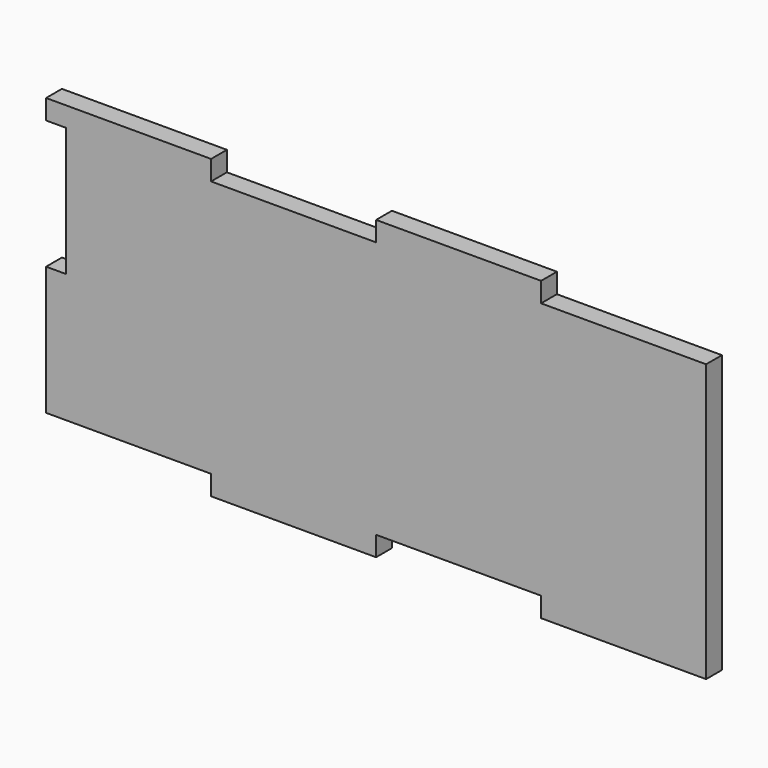
from build123d import *

# Parameters (mm, degrees)
RECTANGLE127_AS_DRAWN_W                      = 25
RECTANGLE127_AS_DRAWN_H                      = 3
EXTRUDE155_DEPTH                             = 3
EXTRUDE155_ONTO_RECTANGLE127_ROLL_ANGLE      = -90
EXTRUDE155_ONTO_RECTANGLE127_PLACEMENT_ANGLE = 180
RECTANGLE128_AS_DRAWN_W                      = 25
RECTANGLE128_AS_DRAWN_H                      = 3
EXTRUDE157_DEPTH                             = 3
EXTRUDE157_ONTO_RECTANGLE128_ROLL_ANGLE      = -90
EXTRUDE157_ONTO_RECTANGLE128_PLACEMENT_ANGLE = 180
RECTANGLE130_AS_DRAWN_W                      = 25
RECTANGLE130_AS_DRAWN_H                      = 3
EXTRUDE162_DEPTH                             = 3
EXTRUDE162_ONTO_RECTANGLE130_ROLL_ANGLE      = -90
EXTRUDE162_ONTO_RECTANGLE130_PLACEMENT_ANGLE = 180
EXTRUDE160_DEPTH                             = 3
EXTRUDE160_ONTO_RECTANGLE127_ROLL_ANGLE      = -90
EXTRUDE160_ONTO_RECTANGLE127_PLACEMENT_ANGLE = 180
RECTANGLE132_AS_DRAWN_W                      = 3
RECTANGLE132_AS_DRAWN_H                      = 19.5
EXTRUDE168_DEPTH                             = 3
EXTRUDE168_ONTO_RECTANGLE132_ROLL_ANGLE      = -90
EXTRUDE168_ONTO_RECTANGLE132_PLACEMENT_ANGLE = 180
BOX044_W                                     = 100
BOX044_H                                     = 3
BOX044_DEPTH                                 = 45


with BuildPart() as extrude155:
    # Rectangle127 as drawn → Extrude155 (new)
    with BuildSketch(Plane.XY):
        with Locations((12.5, 1.5)):
            Rectangle(RECTANGLE127_AS_DRAWN_W, RECTANGLE127_AS_DRAWN_H)
    extrude(amount=-EXTRUDE155_DEPTH)


with BuildPart() as extrude155_1:
    # Extrude155 onto Rectangle127 roll: moved
    add(extrude155.part.rotate(Axis((0, 0, 0), (1, 0, 0)), EXTRUDE155_ONTO_RECTANGLE127_ROLL_ANGLE))


with BuildPart() as extrude155_2:
    # Extrude155 onto Rectangle127 placement: moved
    add(extrude155_1.part.moved(Location((114, -77, -70))).rotate(Axis((114, -77, -70), (0, 0, 1)), EXTRUDE155_ONTO_RECTANGLE127_PLACEMENT_ANGLE))


with BuildPart() as extrude155_3:
    # Extrude155 placement: moved
    add(extrude155_2.part.moved(Location((-183, 0, 0))))


with BuildPart() as extrude157:
    # Rectangle128 as drawn → Extrude157 (new)
    with BuildSketch(Plane.XY):
        with Locations((12.5, 1.5)):
            Rectangle(RECTANGLE128_AS_DRAWN_W, RECTANGLE128_AS_DRAWN_H)
    extrude(amount=-EXTRUDE157_DEPTH)


with BuildPart() as extrude157_1:
    # Extrude157 onto Rectangle128 roll: moved
    add(extrude157.part.rotate(Axis((0, 0, 0), (1, 0, 0)), EXTRUDE157_ONTO_RECTANGLE128_ROLL_ANGLE))


with BuildPart() as extrude157_2:
    # Extrude157 onto Rectangle128 placement: moved
    add(extrude157_1.part.moved(Location((89, -77, -70))).rotate(Axis((89, -77, -70), (0, 0, 1)), EXTRUDE157_ONTO_RECTANGLE128_PLACEMENT_ANGLE))


with BuildPart() as extrude157_3:
    # Extrude157 placement: moved
    add(extrude157_2.part.moved(Location((-208, 0, 0))))


with BuildPart() as extrude162:
    # Rectangle130 as drawn → Extrude162 (new)
    with BuildSketch(Plane.XY):
        with Locations((12.5, 1.5)):
            Rectangle(RECTANGLE130_AS_DRAWN_W, RECTANGLE130_AS_DRAWN_H)
    extrude(amount=-EXTRUDE162_DEPTH)


with BuildPart() as extrude162_1:
    # Extrude162 onto Rectangle130 roll: moved
    add(extrude162.part.rotate(Axis((0, 0, 0), (1, 0, 0)), EXTRUDE162_ONTO_RECTANGLE130_ROLL_ANGLE))


with BuildPart() as extrude162_2:
    # Extrude162 onto Rectangle130 placement: moved
    add(extrude162_1.part.moved(Location((39, -77, -70))).rotate(Axis((39, -77, -70), (0, 0, 1)), EXTRUDE162_ONTO_RECTANGLE130_PLACEMENT_ANGLE))


with BuildPart() as extrude162_3:
    # Extrude162 placement: moved
    add(extrude162_2.part.moved(Location((-183, 0, -42))))


with BuildPart() as extrude160:
    # Rectangle127 as drawn → Extrude160 (new)
    with BuildSketch(Plane.XY):
        with Locations((12.5, 1.5)):
            Rectangle(RECTANGLE127_AS_DRAWN_W, RECTANGLE127_AS_DRAWN_H)
    extrude(amount=-EXTRUDE160_DEPTH)


with BuildPart() as extrude160_1:
    # Extrude160 onto Rectangle127 roll: moved
    add(extrude160.part.rotate(Axis((0, 0, 0), (1, 0, 0)), EXTRUDE160_ONTO_RECTANGLE127_ROLL_ANGLE))


with BuildPart() as extrude160_2:
    # Extrude160 onto Rectangle127 placement: moved
    add(extrude160_1.part.moved(Location((114, -77, -70))).rotate(Axis((114, -77, -70), (0, 0, 1)), EXTRUDE160_ONTO_RECTANGLE127_PLACEMENT_ANGLE))


with BuildPart() as extrude160_3:
    # Extrude160 placement: moved
    add(extrude160_2.part.moved(Location((-208, 0, -42))))


with BuildPart() as fusion064025:
    # Rectangle132 as drawn → Extrude168 (new)
    with BuildSketch(Plane.XY):
        with Locations((1.5, 9.75)):
            Rectangle(RECTANGLE132_AS_DRAWN_W, RECTANGLE132_AS_DRAWN_H)
    extrude(amount=-EXTRUDE168_DEPTH)


with BuildPart() as fusion064025_1:
    # Extrude168 onto Rectangle132 roll: moved
    add(fusion064025.part.rotate(Axis((0, 0, 0), (1, 0, 0)), EXTRUDE168_ONTO_RECTANGLE132_ROLL_ANGLE))


with BuildPart() as fusion064025_2:
    # Extrude168 onto Rectangle132 placement: moved
    add(fusion064025_1.part.moved(Location((114, -77, -92.5))).rotate(Axis((114, -77, -92.5), (0, 0, 1)), EXTRUDE168_ONTO_RECTANGLE132_PLACEMENT_ANGLE))


with BuildPart() as fusion064025_3:
    # Extrude168 placement: moved
    add(fusion064025_2.part.moved(Location((-280, 0, 19.5))))

    # Fusion064025: union Extrude155, Extrude157, Extrude162, Extrude160
    add(extrude155_3.part)
    add(extrude157_3.part)
    add(extrude162_3.part)
    add(extrude160_3.part)


with BuildPart() as cut035014:
    # Box044 → Box044 (new body)
    with BuildSketch(Plane(origin=(-169, -77, -115), x_dir=(1, 0, 0), z_dir=(0, 0, 1))):
        with Locations((50, 1.5)):
            Rectangle(BOX044_W, BOX044_H)
    extrude(amount=BOX044_DEPTH)

    # Cut035014: cut Fusion064025
    add(fusion064025_3.part, mode=Mode.SUBTRACT)


solid = cut035014.part
